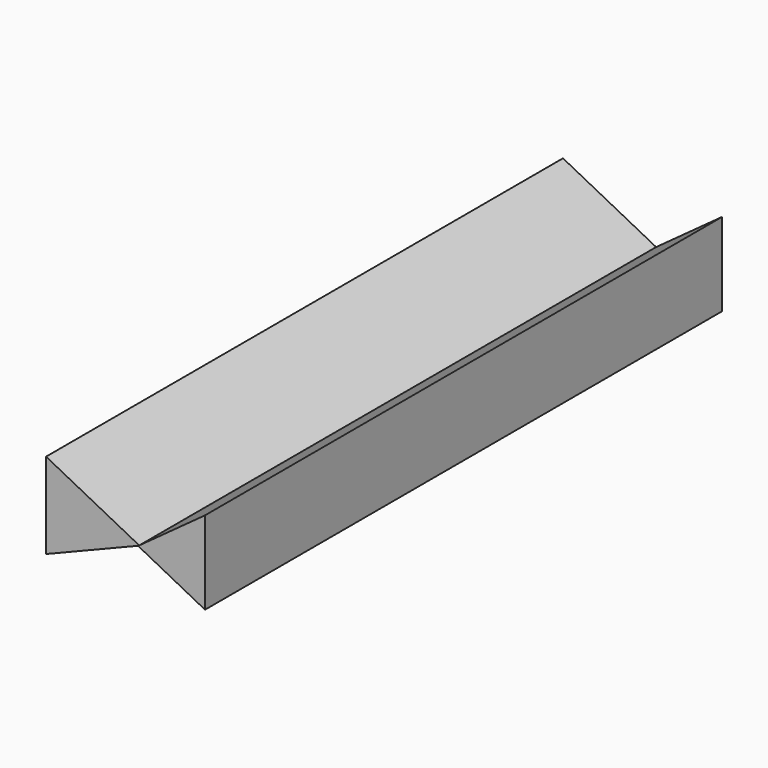
from build123d import *

# Parameters (mm, degrees)
F1_DEPTH = 228.6
F3_DEPTH = 228.6


with BuildPart() as f1:
    # F0 (on Front) → F1 (new body)
    with BuildSketch(Plane.XZ):
        Polygon((-63.258275, -30.340541), (-30.223398, -16.986018), (-63.258275, 0), align=None)
    extrude(amount=F1_DEPTH)

    # F2 (on Front) → F3 (join)
    with BuildSketch(Plane.XZ):
        Polygon((-7.028698, 0), (-30.691978, -17.220307), (-7.028698, -29.403383), align=None)
    extrude(amount=F3_DEPTH)


solid = f1.part
